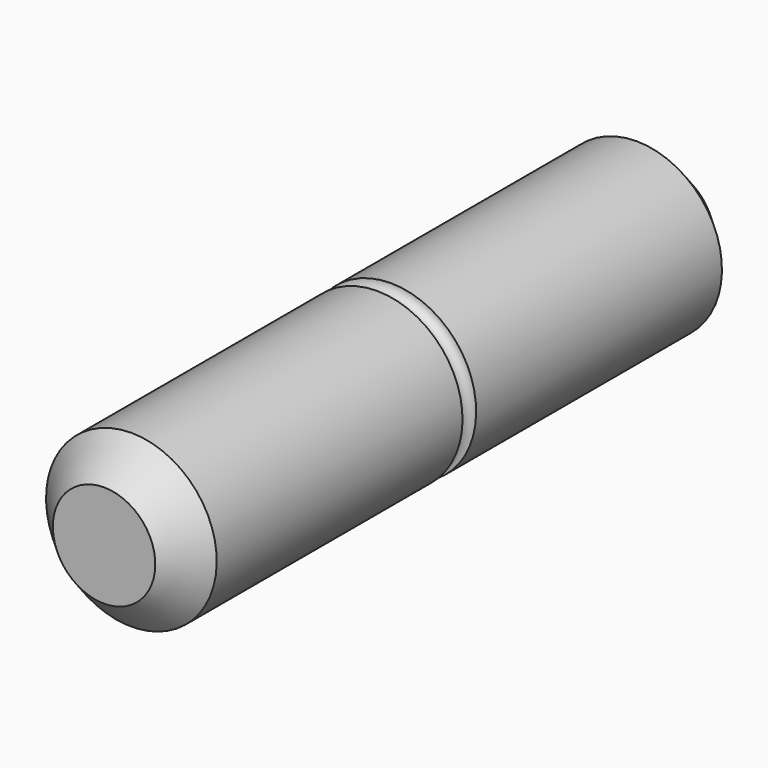
from build123d import *

# Parameters (mm, degrees)
F2_SIZE = 0.5


with BuildPart() as f1:
    # F0 (on Right) → F1 (revolve)
    with BuildSketch(Plane.YZ):
        with BuildLine():
            Line((-5.125, 0), (0, 0))
            Line((0, 0), (0, 1.125))
            ThreePointArc((0, 1.125), (-0.088388, 1.161612), (-0.125, 1.25))
            Line((-0.125, 1.25), (-5.125, 1.25))
            Line((-5.125, 1.25), (-5.125, 0))
        make_face()
        with BuildLine():
            Line((0, 1.125), (0, 0))
            Line((0, 0), (5.125, 0))
            Line((5.125, 0), (5.125, 1.25))
            Line((5.125, 1.25), (0.125, 1.25))
            ThreePointArc((0.125, 1.25), (0.088388, 1.161612), (0, 1.125))
        make_face()
    revolve(axis=Axis((0, 2.5625, 0), (0, -1, 0)))

    # F2
    f2_edges = [f1.edges().sort_by_distance(p)[0] for p in [
        (0, -5.125, -1.25),
        (0, 5.125, -1.25),
    ]]
    chamfer(f2_edges, length=F2_SIZE)


solid = f1.part
